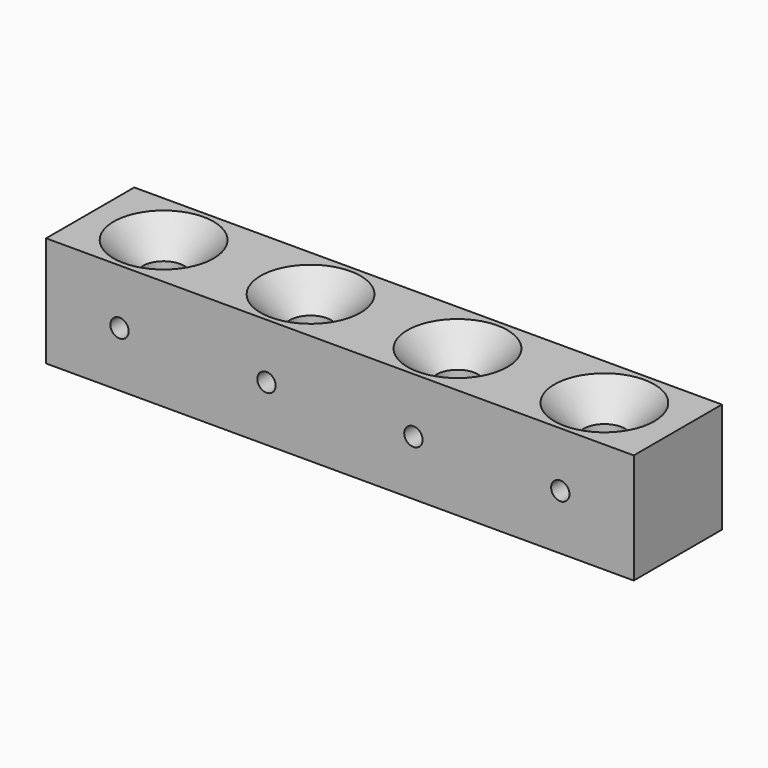
from build123d import *

# Parameters (mm, degrees)
F0_W     = 80
F0_H     = 15
F0_R     = 2.8
F1_DEPTH = 7.5
F2_SIZE  = 4
F3_SIZE  = 0.5
F5_D     = 2.5


with BuildPart() as f1:
    # F0 (on Top) → F1 (new body, symmetric)
    with BuildSketch(Plane.XY):
        with Locations((30, 0)):
            Rectangle(F0_W, F0_H)
        Circle(F0_R, mode=Mode.SUBTRACT)
        with Locations((20, 0)):
            Circle(F0_R, mode=Mode.SUBTRACT)
        with Locations((40, 0)):
            Circle(F0_R, mode=Mode.SUBTRACT)
        with Locations((60, 0)):
            Circle(F0_R, mode=Mode.SUBTRACT)
    extrude(amount=F1_DEPTH, both=True)

    # F2
    f2_edges = [f1.edges().sort_by_distance(p)[0] for p in [
        (-2.8, 0, 7.5),
        (17.2, 0, 7.5),
        (37.2, 0, 7.5),
        (57.2, 0, 7.5),
    ]]
    chamfer(f2_edges, length=F2_SIZE)

    # F3
    f3_edges = [f1.edges().sort_by_distance(p)[0] for p in [
        (57.2, 0, -7.5),
        (37.2, 0, -7.5),
        (17.2, 0, -7.5),
        (-2.8, 0, -7.5),
    ]]
    chamfer(f3_edges, length=F3_SIZE)

    # F5 (through all)
    with Locations(Plane(origin=(0, 7.5, 0), x_dir=(-1, 0, 0), z_dir=(0, 1, 0))):
        with Locations((-60, 0), (-40, 0), (-20, 0), (0, 0)):
            Hole(F5_D / 2)


solid = f1.part
